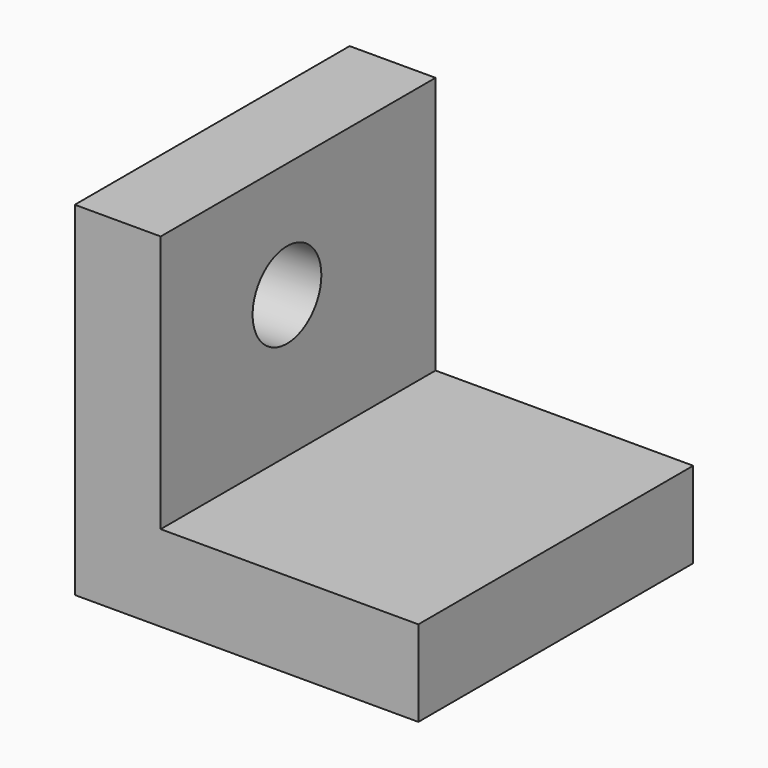
from build123d import *

# Parameters (mm, degrees)
F0_W     = 38.1
F0_H     = 50.8
F1_DEPTH = 12.7
F0_W_2   = 12.7
F2_DEPTH = 50.8
F3_R     = 6.35
F4_DEPTH = 12.701


with BuildPart() as f1:
    # F0 (on Top) → F1 (new body)
    with BuildSketch(Plane.XY):
        with Locations((13.474178, 6.987029)):
            Rectangle(F0_W, F0_H)
    extrude(amount=F1_DEPTH)

    # F0 (on Top) → F2 (join)
    with BuildSketch(Plane.XY):
        with Locations((-11.925822, 6.987029)):
            Rectangle(F0_W_2, F0_H)
    extrude(amount=F2_DEPTH)

    # F3 (on face) → F4 (cut, through all)
    with BuildSketch(Plane.YZ.offset(-5.575822)):
        with Locations((4.932123, 33.702843)):
            Circle(F3_R)
    extrude(amount=-F4_DEPTH, mode=Mode.SUBTRACT)


solid = f1.part
